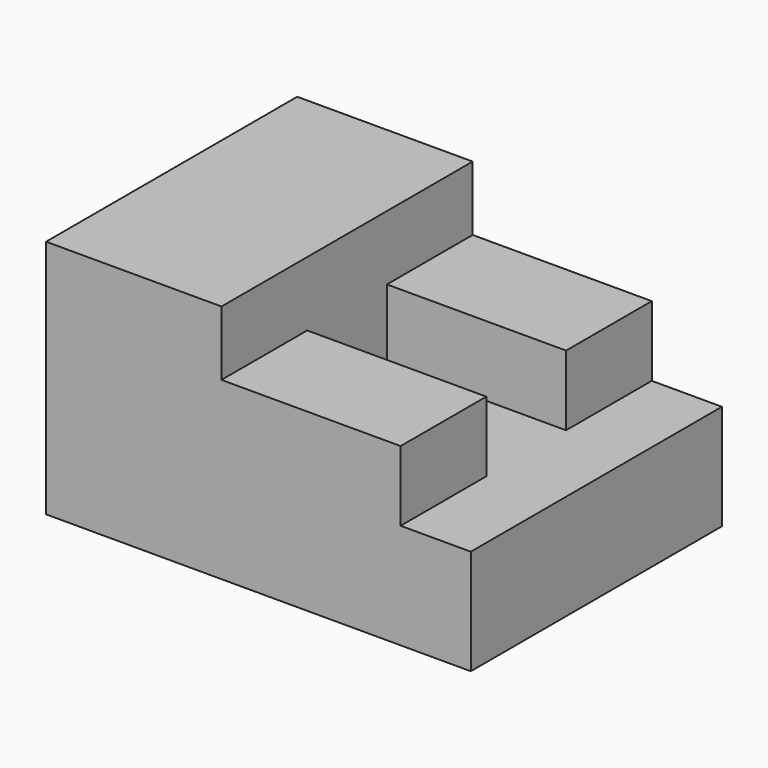
from build123d import *

# Parameters (mm, degrees)
F0_W      = 58.42
F0_H      = 43.18
F1_DEPTH  = 33.02
F2_W      = 44.949538
F2_H      = 18.542
F3_DEPTH  = 21.591
F3_FACE_W = 34.29
F3_FACE_H = 18.542
F4_DEPTH  = 21.591
F5_W      = 24.638
F5_H      = 14.732
F6_DEPTH  = 24.13
F7_W      = 24.638
F7_H      = 14.732
F8_DEPTH  = 24.13


with BuildPart() as f1:
    # F0 (on Top) → F1 (new body)
    with BuildSketch(Plane.XY):
        Rectangle(F0_W, F0_H)
    extrude(amount=F1_DEPTH)

    # F2 (on Front) → F3 (cut, through all)
    with BuildSketch(Plane.XZ):
        with Locations((17.394769, 23.749)):
            Rectangle(F2_W, F2_H)
    extrude(amount=-F3_DEPTH, mode=Mode.SUBTRACT)

    # F3_face (on face) → F4 (cut, through all)
    with BuildSketch(Plane(origin=(12.065, 0, 23.749), x_dir=(1, 0, 0), z_dir=(0, 1, 0))):
        Rectangle(F3_FACE_W, F3_FACE_H)
    extrude(amount=-F4_DEPTH, mode=Mode.SUBTRACT)

    # F5 (on Top) → F6 (join)
    with BuildSketch(Plane.XY):
        with Locations((7.239, 14.224)):
            Rectangle(F5_W, F5_H)
    extrude(amount=F6_DEPTH)

    # F7 (on Top) → F8 (join)
    with BuildSketch(Plane.XY):
        with Locations((7.239, -14.224)):
            Rectangle(F7_W, F7_H)
    extrude(amount=F8_DEPTH)


solid = f1.part
